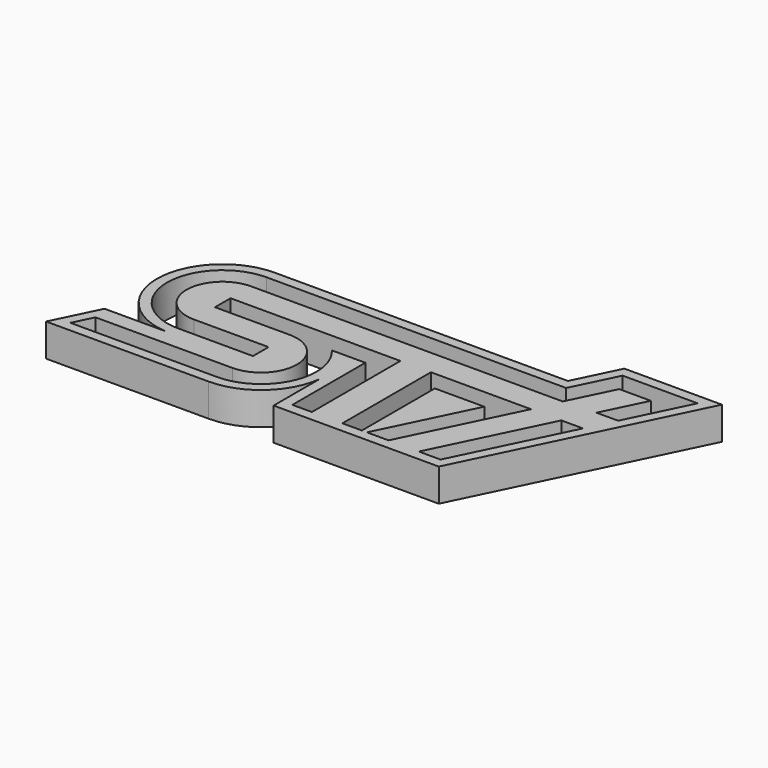
from build123d import *

# Parameters (mm, degrees)
F1_DEPTH = 1.27


with BuildPart() as f1:
    # F0 (on Top) → F1 (new body)
    with BuildSketch(Plane.XY):
        with BuildLine():
            Line((-60.090681, -24.242216), (-60.949747, -26.003563))
            Line((-60.949747, -26.003563), (-54.63702, -26.003563))
            ThreePointArc((-54.63702, -26.003563), (-52.960343, -25.371386), (-52.118427, -23.789593))
            Line((-52.118427, -23.789593), (-52.118427, -26.003563))
            Line((-52.118427, -26.003563), (-45.709747, -26.003563))
            Line((-45.709747, -26.003563), (-41.547436, -17.46956))
            Line((-41.547436, -17.46956), (-45.333524, -17.46956))
            Line((-45.333524, -17.46956), (-46.163354, -19.170964))
            Line((-46.163354, -19.170964), (-57.539363, -19.170964))
            ThreePointArc((-57.539363, -19.170964), (-60.07695, -21.610687), (-57.738863, -24.242216))
            Line((-57.738863, -24.242216), (-60.090681, -24.242216))
        make_face()
        with BuildLine():
            Line((-54.63702, -25.610537), (-60.320774, -25.610537))
            Line((-60.320774, -25.610537), (-59.952137, -24.854719))
            Line((-59.952137, -24.854719), (-54.63702, -24.854719))
            ThreePointArc((-54.63702, -24.854719), (-53.246314, -23.464013), (-54.63702, -22.073307))
            Line((-54.63702, -22.073307), (-57.539363, -22.073307))
            Line((-57.539363, -22.073307), (-57.539363, -21.317489))
            Line((-57.539363, -21.317489), (-50.948626, -21.317489))
            Line((-50.948626, -21.317489), (-50.948626, -25.610537))
            Line((-50.948626, -25.610537), (-51.704444, -25.610537))
            Line((-51.704444, -25.610537), (-51.704444, -22.073307))
            Line((-51.704444, -22.073307), (-53.001934, -22.073307))
            ThreePointArc((-53.001934, -22.073307), (-52.688591, -24.364675), (-54.63702, -25.610537))
        make_face(mode=Mode.SUBTRACT)
        Polygon((-49.007684, -25.610537), (-49.763502, -25.610537), (-49.763502, -21.317489), (-45.878878, -21.317489), (-47.972738, -25.610537), (-48.813663, -25.610537), (-47.08844, -22.073307), (-49.007684, -22.073307), align=None, mode=Mode.SUBTRACT)
        Polygon((-45.955337, -25.610537), (-46.796262, -25.610537), (-44.702402, -21.317489), (-43.861477, -21.317489), align=None, mode=Mode.SUBTRACT)
        with BuildLine():
            Line((-54.63702, -23.10122), (-54.63702, -23.857039))
            Line((-54.63702, -23.857039), (-57.539363, -23.857039))
            ThreePointArc((-57.539363, -23.857039), (-59.685887, -21.710514), (-57.539363, -19.56399))
            Line((-57.539363, -19.56399), (-45.917764, -19.56399))
            Line((-45.917764, -19.56399), (-45.087934, -17.862586))
            Line((-45.087934, -17.862586), (-42.176408, -17.862586))
            Line((-42.176408, -17.862586), (-43.344251, -20.257019))
            Line((-43.344251, -20.257019), (-44.185176, -20.257019))
            Line((-44.185176, -20.257019), (-43.38597, -18.618404))
            Line((-43.38597, -18.618404), (-44.615646, -18.618404))
            Line((-44.615646, -18.618404), (-45.445477, -20.319808))
            Line((-45.445477, -20.319808), (-57.539363, -20.319808))
            ThreePointArc((-57.539363, -20.319808), (-58.930069, -21.710514), (-57.539363, -23.10122))
            Line((-57.539363, -23.10122), (-54.63702, -23.10122))
        make_face(mode=Mode.SUBTRACT)
    extrude(amount=F1_DEPTH)


solid = f1.part
